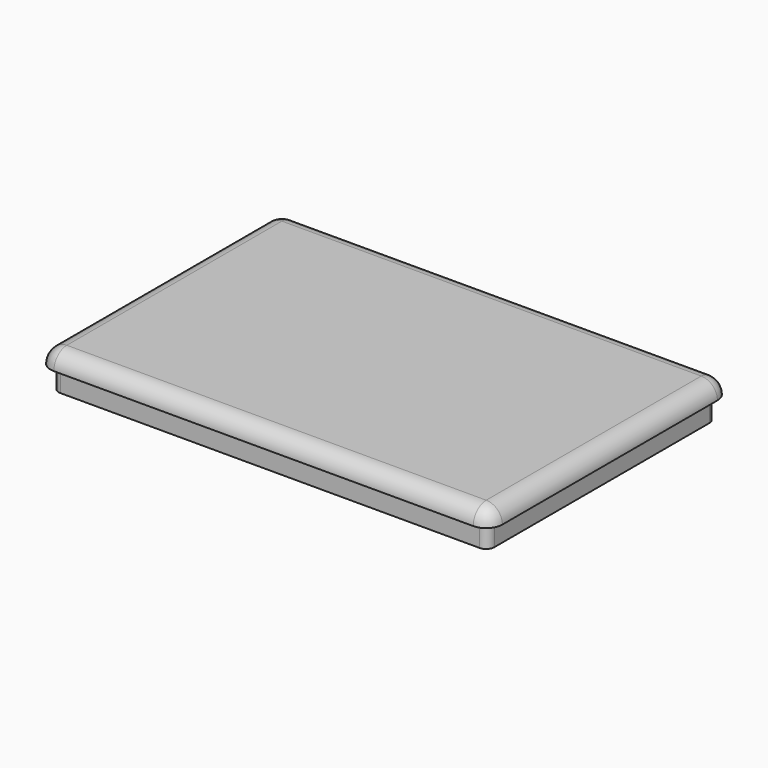
from build123d import *

# Parameters (mm, degrees)
REVOLUTION_ANGLE            = -90
PAD_DEPTH                   = 27.85
PAD001_DEPTH                = 17.85
PAD001_MIRRORED_2_DEPTH     = 17.85
PAD_MIRRORED_2_DEPTH        = 27.85
REVOLUTION_MIRRORED_2_ANGLE = 90


with BuildPart() as part:
    # Sketch → Revolution (revolve)
    with BuildSketch(Plane.XZ):
        with BuildLine():
            Line((0, 0), (0, 5.15))
            ThreePointArc((2.15, 3), (1.52028, 4.52028), (0, 5.15))
            Line((2.15, 3), (1.075, 3))
            Line((1.075, 3), (1.075, 0))
            Line((1.075, 0), (0, 0))
        make_face()
    revolution = revolve(axis=Axis((0, 0, 0), (0, 0, 1)), revolution_arc=REVOLUTION_ANGLE)

    # Revolution Face6 → Pad (new)
    with BuildSketch(Plane(origin=(0, -0.736084, 2.777594), x_dir=(0, 1, 0), z_dir=(-1, 0, 0))):
        with BuildLine():
            Line((0.736084, -2.372406), (0.736084, 2.777594))
            Line((0.736084, 2.777594), (-0.338916, 2.777594))
            Line((-0.338916, 2.777594), (-0.338916, -0.222406))
            Line((-0.338916, -0.222406), (-1.413916, -0.222406))
            ThreePointArc((-1.413916, -0.222406), (-0.784195, -1.742686), (0.736084, -2.372406))
        make_face()
    pad = extrude(amount=PAD_DEPTH)

    # Pad Face7 → Pad001 (add)
    with BuildSketch(Plane(origin=(-13.256201, 0, 2.584242), x_dir=(1, 0, 0), z_dir=(0, 1, 0))):
        with BuildLine():
            ThreePointArc((13.256201, -2.565758), (14.776481, -1.936038), (15.406201, -0.415758))
            Line((15.406201, -0.415758), (14.331201, -0.415758))
            Line((14.331201, -0.415758), (14.331201, 2.584242))
            Line((14.331201, 2.584242), (-14.593799, 2.584242))
            Line((-14.593799, 2.584242), (-14.593799, -2.565758))
            Line((-14.593799, -2.565758), (13.256201, -2.565758))
        make_face()
    pad001 = extrude(amount=PAD001_DEPTH)

    # Pad Face7 Mirrored 2 → Pad001 Mirrored 2 (add)
    with BuildSketch(Plane(origin=(-42.443799, 0, 2.584242), x_dir=(-1, 0, 0), z_dir=(0, -1, 0))):
        with BuildLine():
            ThreePointArc((13.256201, -2.565758), (14.776481, -1.936038), (15.406201, -0.415758))
            Line((15.406201, -0.415758), (14.331201, -0.415758))
            Line((14.331201, -0.415758), (14.331201, 2.584242))
            Line((14.331201, 2.584242), (-14.593799, 2.584242))
            Line((-14.593799, 2.584242), (-14.593799, -2.565758))
            Line((-14.593799, -2.565758), (13.256201, -2.565758))
        make_face()
    pad001_mirrored_2 = extrude(amount=-PAD001_MIRRORED_2_DEPTH)

    # Revolution Face6 Mirrored 2 → Pad Mirrored 2 (add)
    with BuildSketch(Plane(origin=(-55.7, -0.736084, 2.777594), x_dir=(0, 1, 0), z_dir=(-1, 0, 0))):
        with BuildLine():
            Line((0.736084, -2.372406), (0.736084, 2.777594))
            Line((0.736084, 2.777594), (-0.338916, 2.777594))
            Line((-0.338916, 2.777594), (-0.338916, -0.222406))
            Line((-0.338916, -0.222406), (-1.413916, -0.222406))
            ThreePointArc((-1.413916, -0.222406), (-0.784195, -1.742686), (0.736084, -2.372406))
        make_face()
    pad_mirrored_2 = extrude(amount=-PAD_MIRRORED_2_DEPTH)

    # Sketch Mirrored 2 → Revolution Mirrored 2 (revolve)
    with BuildSketch(Plane(origin=(-55.7, 0, 0), x_dir=(-1, 0, 0), z_dir=(0, 1, 0))):
        with BuildLine():
            Line((0, 0), (0, 5.15))
            ThreePointArc((2.15, 3), (1.52028, 4.52028), (0, 5.15))
            Line((2.15, 3), (1.075, 3))
            Line((1.075, 3), (1.075, 0))
            Line((1.075, 0), (0, 0))
        make_face()
    revolution_mirrored_2 = revolve(axis=Axis((-55.7, 0, 0), (0, 0, 1)), revolution_arc=REVOLUTION_MIRRORED_2_ANGLE)

    # Mirrored001: Pad001, Pad, Revolution, Pad001 Mirrored 2, Pad Mirrored 2, Revolution Mirrored 2 across face of Pad001
    add(pad001.mirror(Plane(origin=(-13.256201, 17.85, 2.584242), x_dir=(-1, 0, 0), z_dir=(0, 1, 0))))
    add(pad.mirror(Plane(origin=(-13.256201, 17.85, 2.584242), x_dir=(-1, 0, 0), z_dir=(0, 1, 0))))
    add(revolution.mirror(Plane(origin=(-13.256201, 17.85, 2.584242), x_dir=(-1, 0, 0), z_dir=(0, 1, 0))))
    add(pad001_mirrored_2.mirror(Plane(origin=(-13.256201, 17.85, 2.584242), x_dir=(-1, 0, 0), z_dir=(0, 1, 0))))
    add(pad_mirrored_2.mirror(Plane(origin=(-13.256201, 17.85, 2.584242), x_dir=(-1, 0, 0), z_dir=(0, 1, 0))))
    add(revolution_mirrored_2.mirror(Plane(origin=(-13.256201, 17.85, 2.584242), x_dir=(-1, 0, 0), z_dir=(0, 1, 0))))


solid = part.part
